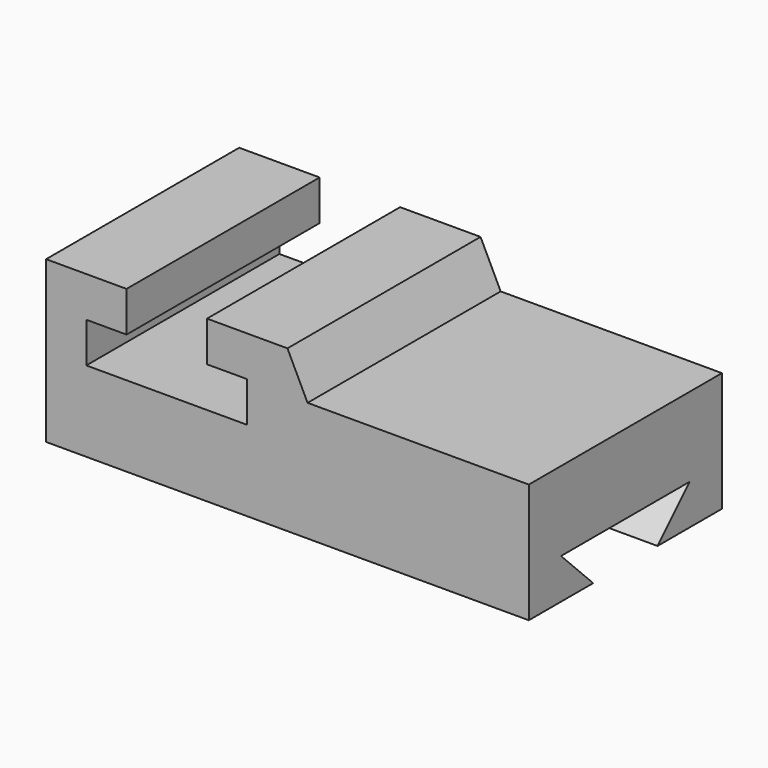
from build123d import *

# Parameters (mm, degrees)
F0_W     = 152.4
F0_H     = 50.8
F1_DEPTH = 76.2
F3_DEPTH = 76.2
F5_DEPTH = 152.4


with BuildPart() as f1:
    # F0 (on Front) → F1 (new body)
    with BuildSketch(Plane.XZ):
        with Locations((76.2, 25.4)):
            Rectangle(F0_W, F0_H)
    extrude(amount=-F1_DEPTH)

    # F2 (on face) → F3 (cut)
    with BuildSketch(Plane.XZ):
        Polygon((50.8, 50.8), (25.4, 50.8), (25.4, 38.1), (12.700001, 38.1), (12.700001, 25.4), (63.500001, 25.4), (63.500001, 38.1), (50.8, 38.1), align=None)
        Polygon((82.55, 37.719), (152.4, 37.719), (152.4, 50.8), (76.2, 50.8), align=None)
    extrude(amount=-F3_DEPTH, mode=Mode.SUBTRACT)

    # F4 (on face) → F5 (cut)
    with BuildSketch(Plane.YZ.offset(152.4)):
        Polygon((12.7, 12.7), (25.4, 0), (50.8, 0), (63.5, 12.7), align=None)
    extrude(amount=-F5_DEPTH, mode=Mode.SUBTRACT)


solid = f1.part
